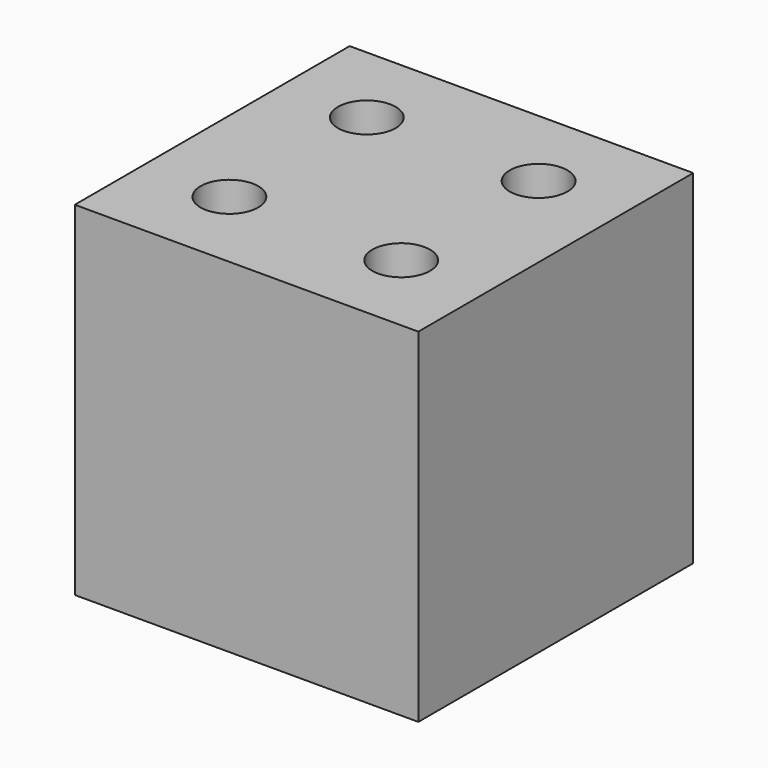
from build123d import *

# Parameters (mm, degrees)
F0_W     = 50
F0_H     = 50
F1_DEPTH = 25
F3_D     = 8.4


with BuildPart() as f1:
    # F0 (on Front) → F1 (new body, symmetric)
    with BuildSketch(Plane.XZ):
        Rectangle(F0_W, F0_H)
    extrude(amount=F1_DEPTH, both=True)

    # F3 (through all)
    with Locations(Plane.XY.offset(25)):
        with Locations((-12.5, 12.5), (12.5, 12.5), (12.5, -12.5), (-12.5, -12.5)):
            Hole(F3_D / 2)


solid = f1.part
